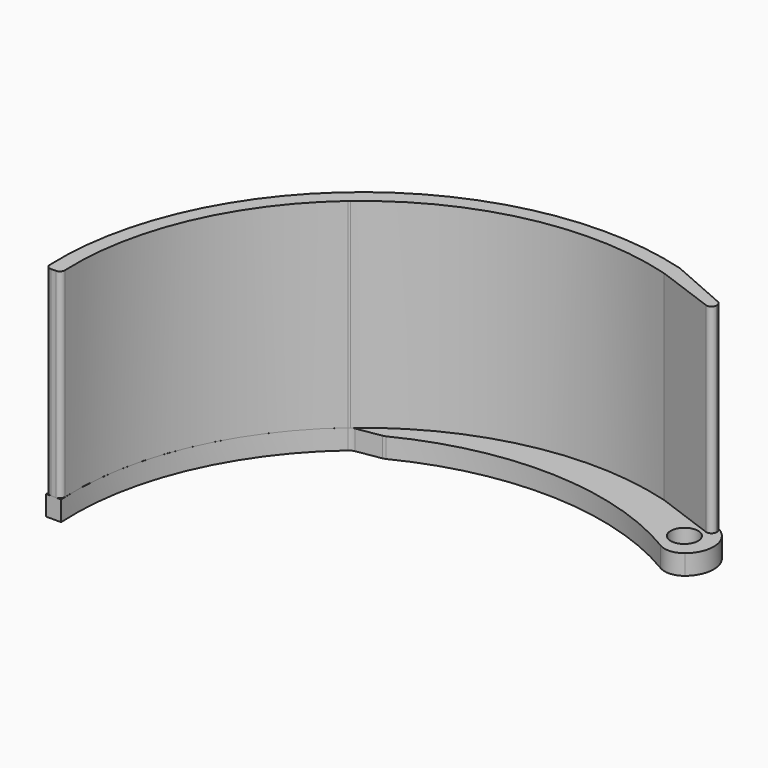
from build123d import *

# Parameters (mm, degrees)
F0_R     = 1.375
F1_DEPTH = 2
F2_R     = 2
F3_R     = 1
F4_R     = 5
F6_DEPTH = 20
F7_R     = 0.5


with BuildPart() as f1:
    # F0 (on Top) → F1 (new body)
    with BuildSketch(Plane.XY):
        with BuildLine():
            Line((-26.0058527609, 7.6584140292), (-38.6634979914, 5.4525812352))
            ThreePointArc((-38.6634979914, 5.4525812352), (-40.7772058577, 2.3672063948), (-37.5723509725, 0.439460557))
            ThreePointArc((-37.5723509725, 0.439460557), (-32.1994597429, 4.7064292217), (-26.0058527609, 7.6584140292))
        make_face()
        with Locations((-38.2662601769, 2.91373441)):
            Circle(F0_R, mode=Mode.SUBTRACT)
        with BuildLine():
            ThreePointArc((-26.0058527609, 7.6584140292), (-32.1994597429, 4.7064292217), (-37.5723509725, 0.439460557))
            ThreePointArc((-37.5723509725, 0.439460557), (-44.4817901409, -10.1985694874), (-46.4430912529, -22.7309806996))
            Line((-46.4430912529, -22.7309806996), (-44.9406874418, -22.7309806996))
            ThreePointArc((-44.9406874418, -22.7309806996), (-42.6535203698, -9.6810899108), (-34.7781050217, 0.9729523227))
            ThreePointArc((-34.7781050217, 0.9729523227), (-21.9636028513, 7.2148890549), (-7.724548842, 6.5648267778))
            Line((-7.724548842, 6.5648267778), (-1.8342146029, 4.774504763))
            Line((-1.8342146029, 4.774504763), (-1.8342146029, 5.6000485559))
            Line((-1.8342146029, 5.6000485559), (-7.2883389242, 8))
            ThreePointArc((-7.2883389242, 8), (-16.6740730858, 9.3074495856), (-26.0058527609, 7.6584140292))
        make_face()
        with BuildLine():
            ThreePointArc((-2.664596676, 0), (-0.1131236251, 2.4832537589), (-1.8342146029, 5.6000485559))
            Line((-1.8342146029, 5.6000485559), (-1.8342146029, 4.774504763))
            Line((-1.8342146029, 4.774504763), (-7.724548842, 6.5648267778))
            ThreePointArc((-7.724548842, 6.5648267778), (-21.9636028513, 7.2148890549), (-34.7781050217, 0.9729523227))
            Line((-34.7781050217, 0.9729523227), (-31.902086389, 1.441097722))
            ThreePointArc((-31.902086389, 1.441097722), (-17.0918371374, 4.6058563567), (-2.664596676, 0))
        make_face()
        with Locations((-3.0162601769, 2.91373441)):
            Circle(F0_R, mode=Mode.SUBTRACT)
    extrude(amount=F1_DEPTH)

    # F2
    f2_edges = [f1.edges().sort_by_distance(p)[0] for p in [
        (-2.664597, 0, 1),
    ]]
    fillet(f2_edges, radius=F2_R)

    # F3
    f3_edges = [f1.edges().sort_by_distance(p)[0] for p in [
        (-26.005853, 7.658414, 1),
        (-31.902086, 1.441098, 1),
        (-34.778105, 0.972952, 1),
        (-37.572351, 0.439461, 1),
    ]]
    fillet(f3_edges, radius=F3_R)

    # F4
    f4_edges = [f1.edges().sort_by_distance(p)[0] for p in [
        (-7.288339, 8, 1),
        (-26.083712, 7.644846, 1),
    ]]
    fillet(f4_edges, radius=F4_R)


with BuildPart() as f6:
    # F5 (on face) → F6 (new body)
    with BuildSketch(Plane.XY.offset(2)):
        with BuildLine():
            Line((-1.4463049592, 5.3934029451), (-7.6160189779, 8.0975843223))
            ThreePointArc((-7.6160189779, 8.0975843223), (-34.9929371242, 2.7127925965), (-46.4430912529, -22.7309806996))
            Line((-46.4430912529, -22.7309806996), (-44.9406874418, -22.7309806996))
            ThreePointArc((-44.9406874418, -22.7309806996), (-44.9430098061, -22.6905101609), (-44.9452753412, -22.6500364012))
            ThreePointArc((-44.9452753412, -22.6500364012), (-42.6935542226, -9.7749251828), (-34.9947559807, 0.7876144034))
            ThreePointArc((-34.9947559807, 0.7876144034), (-34.9180457047, 0.8476280114), (-34.8358610826, 0.8998945155))
            ThreePointArc((-34.8358610826, 0.8998945155), (-22.1613171571, 7.1591912589), (-8.0343653338, 6.6571039895))
            Line((-8.0343653338, 6.6571039895), (-1.4463049592, 4.2445384897))
            Line((-1.4463049592, 4.2445384897), (-1.4463049592, 5.3934029451))
        make_face()
    extrude(amount=F6_DEPTH)

    # F7
    f7_edges = [f6.edges().sort_by_distance(p)[0] for p in [
        (-1.446305, 4.244538, 12),
        (-1.446305, 5.393403, 12),
        (-44.940687, -22.730981, 12),
        (-46.443091, -22.730981, 12),
    ]]
    fillet(f7_edges, radius=F7_R)


solid = Compound([f1.part, f6.part])
